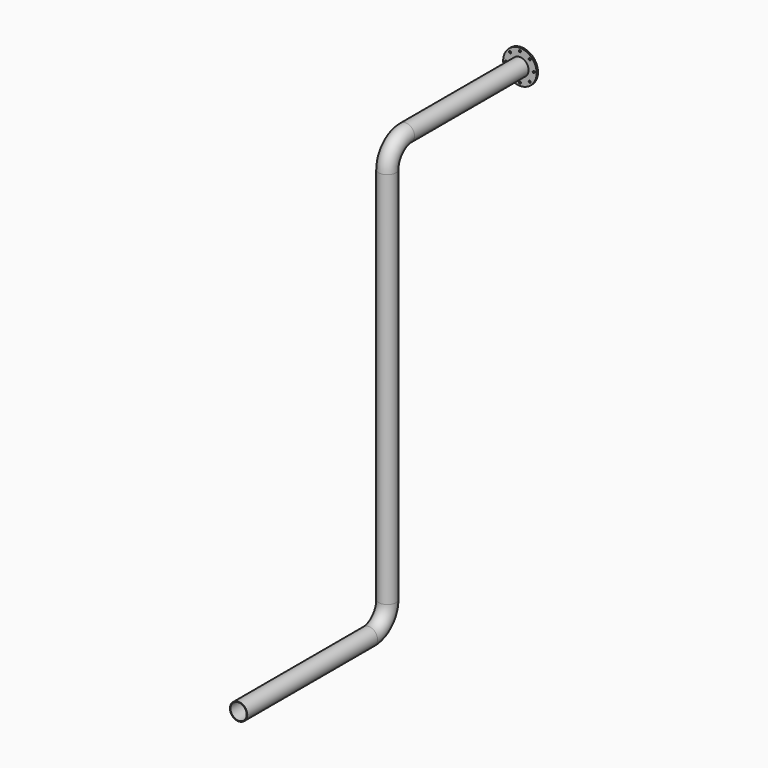
from build123d import *

# Parameters (mm, degrees)
F0_R     = 75
F0_R_2   = 70
F3_R     = 145
F3_R_2   = 9
F4_DEPTH = 15
F5_DEPTH = 25


with BuildPart() as f2:
    # F2: sweep along a path in F1
    with BuildLine(Plane.YZ) as f2_path:
        Line((0, 0), (-1250, 0))
        ThreePointArc((-1250, 0), (-1391.421356, -58.578644), (-1450, -200))
        Line((-1450, -200), (-1450, -3477))
        ThreePointArc((-1450, -3477), (-1508.578644, -3618.421356), (-1650, -3677))
        Line((-1650, -3677), (-3060, -3677))
    # F0 (on Front) → F2 (sweep)
    with BuildSketch(Plane.XZ):
        Circle(F0_R)
        Circle(F0_R_2, mode=Mode.SUBTRACT)
    sweep(path=f2_path.line)

    # F3 (on Front) → F4 (join)
    with BuildSketch(Plane.XZ):
        Circle(F3_R)
        with Locations((-84.852814, -84.852814)):
            Circle(F3_R_2, mode=Mode.SUBTRACT)
        with Locations((0, -120)):
            Circle(F3_R_2, mode=Mode.SUBTRACT)
        with Locations((84.852814, -84.852814)):
            Circle(F3_R_2, mode=Mode.SUBTRACT)
        with Locations((-120, 0)):
            Circle(F3_R_2, mode=Mode.SUBTRACT)
        with Locations((-84.852814, 84.852814)):
            Circle(F3_R_2, mode=Mode.SUBTRACT)
        with Locations((120, 0)):
            Circle(F3_R_2, mode=Mode.SUBTRACT)
        with Locations((0, 120)):
            Circle(F3_R_2, mode=Mode.SUBTRACT)
        with Locations((84.852814, 84.852814)):
            Circle(F3_R_2, mode=Mode.SUBTRACT)
    extrude(amount=F4_DEPTH)

    # F0 (on Front) → F5 (cut)
    with BuildSketch(Plane.XZ):
        Circle(F0_R_2)
    extrude(amount=F5_DEPTH, mode=Mode.SUBTRACT)


solid = f2.part
